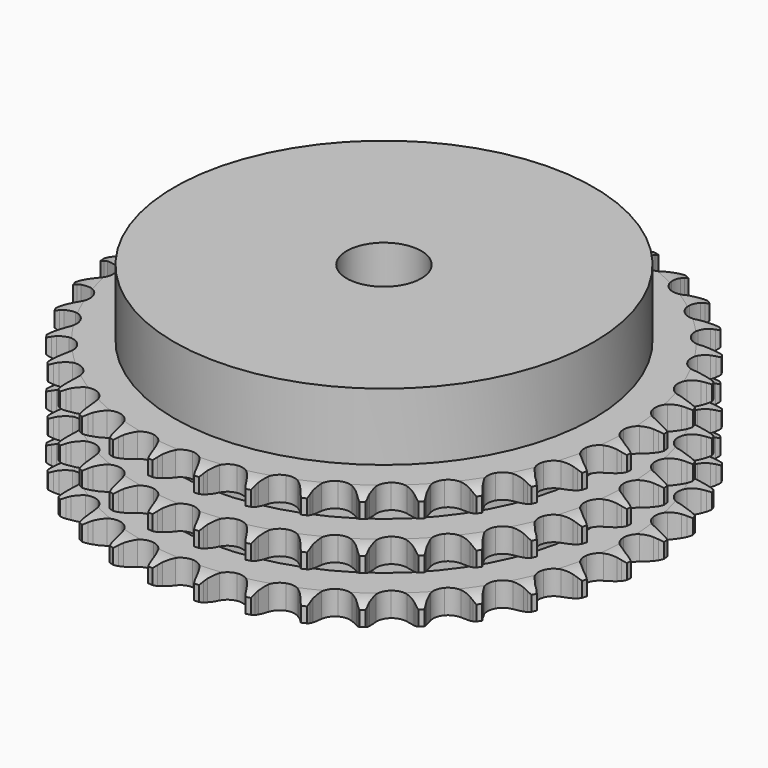
from build123d import *

# Parameters (mm, degrees)
PAD_DEPTH         = 25.6
SKETCH001_R       = 45
PAD001_DEPTH      = 40
SKETCH002_R       = 8
POCKET_DEPTH      = 0.001
POCKET_DEPTH_BACK = 40.001


with BuildPart() as part:
    # Sprocket → Pad (new body)
    with BuildSketch(Plane.XY):
        with BuildLine():
            ThreePointArc((-5.011548, 57.28225), (-4.445116, 56.509908), (-4.031769, 55.645904))
            Line((-4.031769, 55.645904), (-3.722016, 54.805027))
            ThreePointArc((-3.722016, 54.805027), (-3.231124, 53.719507), (-2.590036, 52.715349))
            ThreePointArc((-2.590036, 52.715349), (-1.449161, 51.758042), (0, 51.414584))
            ThreePointArc((0, 51.414584), (1.449161, 51.758042), (2.590036, 52.715349))
            ThreePointArc((2.590036, 52.715349), (3.231124, 53.719507), (3.722016, 54.805027))
            Line((3.722016, 54.805027), (4.031769, 55.645904))
            ThreePointArc((4.031769, 55.645904), (4.445116, 56.509908), (5.011548, 57.28225))
            ThreePointArc((5.011548, 57.28225), (5.435258, 56.423282), (5.692293, 55.500627))
            Line((5.692293, 55.500627), (5.851323, 54.618736))
            ThreePointArc((5.851323, 54.618736), (6.146258, 53.464466), (6.603237, 52.36424))
            ThreePointArc((6.603237, 52.36424), (7.560544, 51.223365), (8.928049, 50.633481))
            ThreePointArc((8.928049, 50.633481), (10.414835, 50.720077), (11.704612, 51.46473))
            Line((11.704612, 51.46473), (13.182263, 53.326094))
            ThreePointArc((13.182263, 53.326094), (13.397349, 53.719336), (13.633327, 54.100408))
            ThreePointArc((13.633327, 54.100408), (14.190427, 54.879509), (14.882369, 55.541758))
            ThreePointArc((14.882369, 55.541758), (15.150484, 54.622262), (15.243397, 53.668991))
            Line((15.243397, 53.668991), (15.246872, 52.772884))
            ThreePointArc((15.246872, 52.772884), (15.33689, 51.584934), (15.595874, 50.422069))
            ThreePointArc((15.595874, 50.422069), (16.340527, 49.132292), (17.584824, 48.313905))
            ThreePointArc((17.584824, 48.313905), (19.064059, 48.141008), (20.463549, 48.65038))
            Line((20.463549, 48.65038), (22.241974, 50.226875))
            ThreePointArc((22.241974, 50.226875), (22.522078, 50.576794), (22.820643, 50.911099))
            ThreePointArc((22.820643, 50.911099), (23.504569, 51.581624), (24.300998, 52.113658))
            ThreePointArc((24.300998, 52.113658), (24.405371, 51.161574), (24.331338, 50.206651))
            Line((24.331338, 50.206651), (24.179153, 49.323553))
            ThreePointArc((24.179153, 49.323553), (24.061518, 48.13802), (24.114638, 46.947849))
            ThreePointArc((24.114638, 46.947849), (24.62401, 45.54836), (25.707292, 44.526336))
            ThreePointArc((25.707292, 44.526336), (27.134031, 44.099198), (28.600711, 44.357814))
            Line((28.600711, 44.357814), (30.625874, 45.601537))
            ThreePointArc((30.625874, 45.601537), (30.962485, 45.897501), (31.314566, 46.174882))
            ThreePointArc((31.314566, 46.174882), (32.104537, 46.716458), (32.981253, 47.10211))
            ThreePointArc((32.981253, 47.10211), (32.918712, 46.146366), (32.679983, 45.218806))
            Line((32.679983, 45.218806), (32.376763, 44.375552))
            ThreePointArc((32.376763, 44.375552), (32.055049, 43.228457), (31.900691, 42.047143))
            ThreePointArc((31.900691, 42.047143), (32.159306, 40.580463), (33.048658, 39.385857))
            ThreePointArc((33.048658, 39.385857), (34.37955, 38.717457), (35.868856, 38.717457))
            Line((35.868856, 38.717457), (38.079222, 39.59062))
            ThreePointArc((38.079222, 39.59062), (38.462113, 39.823636), (38.857012, 40.035664))
            ThreePointArc((38.857012, 40.035664), (39.729025, 40.431836), (40.659389, 40.659389))
            ThreePointArc((40.659389, 40.659389), (40.431836, 39.729025), (40.035664, 38.857012))
            Line((40.035664, 38.857012), (39.59062, 38.079222))
            ThreePointArc((39.59062, 38.079222), (39.074603, 37.005418), (38.717457, 35.868856))
            ThreePointArc((38.717457, 35.868856), (38.717457, 34.37955), (39.385857, 33.048658))
            ThreePointArc((39.385857, 33.048658), (40.580463, 32.159306), (42.047143, 31.900691))
            Line((42.047143, 31.900691), (44.375552, 32.376763))
            ThreePointArc((44.375552, 32.376763), (44.793088, 32.539749), (45.218806, 32.679983))
            ThreePointArc((45.218806, 32.679983), (46.146366, 32.918712), (47.10211, 32.981253))
            ThreePointArc((47.10211, 32.981253), (46.716458, 32.104537), (46.174882, 31.314566))
            Line((46.174882, 31.314566), (45.601537, 30.625874))
            ThreePointArc((45.601537, 30.625874), (44.906895, 29.657989), (44.357814, 28.600711))
            ThreePointArc((44.357814, 28.600711), (44.099198, 27.134031), (44.526336, 25.707292))
            ThreePointArc((44.526336, 25.707292), (45.54836, 24.62401), (46.947849, 24.114638))
            Line((46.947849, 24.114638), (49.323553, 24.179153))
            ThreePointArc((49.323553, 24.179153), (49.763049, 24.267159), (50.206651, 24.331338))
            ThreePointArc((50.206651, 24.331338), (51.161574, 24.405371), (52.113658, 24.300998))
            ThreePointArc((52.113658, 24.300998), (51.581624, 23.504569), (50.911099, 22.820643))
            Line((50.911099, 22.820643), (50.226875, 22.241974))
            ThreePointArc((50.226875, 22.241974), (49.374715, 21.409417), (48.65038, 20.463549))
            ThreePointArc((48.65038, 20.463549), (48.141008, 19.064059), (48.313905, 17.584824))
            ThreePointArc((48.313905, 17.584824), (49.132292, 16.340527), (50.422069, 15.595874))
            Line((50.422069, 15.595874), (52.772884, 15.246872))
            ThreePointArc((52.772884, 15.246872), (53.220984, 15.257224), (53.668991, 15.243397))
            ThreePointArc((53.668991, 15.243397), (54.622262, 15.150484), (55.541758, 14.882369))
            ThreePointArc((55.541758, 14.882369), (54.879509, 14.190427), (54.100408, 13.633327))
            Line((54.100408, 13.633327), (53.326094, 13.182263))
            ThreePointArc((53.326094, 13.182263), (52.342308, 12.510331), (51.46473, 11.704612))
            ThreePointArc((51.46473, 11.704612), (50.720077, 10.414835), (50.633481, 8.928049))
            ThreePointArc((50.633481, 8.928049), (51.223365, 7.560544), (52.36424, 6.603237))
            Line((52.36424, 6.603237), (54.618736, 5.851323))
            ThreePointArc((54.618736, 5.851323), (55.061827, 5.783705), (55.500627, 5.692293))
            ThreePointArc((55.500627, 5.692293), (56.423282, 5.435258), (57.28225, 5.011548))
            ThreePointArc((57.28225, 5.011548), (56.509908, 4.445116), (55.645904, 4.031769))
            Line((55.645904, 4.031769), (54.805027, 3.722016))
            ThreePointArc((54.805027, 3.722016), (53.719507, 3.231124), (52.715349, 2.590036))
            ThreePointArc((52.715349, 2.590036), (51.758042, 1.449161), (51.414584, 0))
            ThreePointArc((51.414584, 0), (51.758042, -1.449161), (52.715349, -2.590036))
            Line((52.715349, -2.590036), (54.805027, -3.722016))
            ThreePointArc((54.805027, -3.722016), (55.229644, -3.865548), (55.645904, -4.031769))
            ThreePointArc((55.645904, -4.031769), (56.509908, -4.445116), (57.28225, -5.011548))
            ThreePointArc((57.28225, -5.011548), (56.423282, -5.435258), (55.500627, -5.692293))
            Line((55.500627, -5.692293), (54.618736, -5.851323))
            ThreePointArc((54.618736, -5.851323), (53.464466, -6.146258), (52.36424, -6.603237))
            ThreePointArc((52.36424, -6.603237), (51.223365, -7.560544), (50.633481, -8.928049))
            ThreePointArc((50.633481, -8.928049), (50.720077, -10.414835), (51.46473, -11.704612))
            Line((51.46473, -11.704612), (53.326094, -13.182263))
            ThreePointArc((53.326094, -13.182263), (53.719336, -13.397349), (54.100408, -13.633327))
            ThreePointArc((54.100408, -13.633327), (54.879509, -14.190427), (55.541758, -14.882369))
            ThreePointArc((55.541758, -14.882369), (54.622262, -15.150484), (53.668991, -15.243397))
            Line((53.668991, -15.243397), (52.772884, -15.246872))
            ThreePointArc((52.772884, -15.246872), (51.584934, -15.33689), (50.422069, -15.595874))
            ThreePointArc((50.422069, -15.595874), (49.132292, -16.340527), (48.313905, -17.584824))
            ThreePointArc((48.313905, -17.584824), (48.141008, -19.064059), (48.65038, -20.463549))
            Line((48.65038, -20.463549), (50.226875, -22.241974))
            ThreePointArc((50.226875, -22.241974), (50.576794, -22.522078), (50.911099, -22.820643))
            ThreePointArc((50.911099, -22.820643), (51.581624, -23.504569), (52.113658, -24.300998))
            ThreePointArc((52.113658, -24.300998), (51.161574, -24.405371), (50.206651, -24.331338))
            Line((50.206651, -24.331338), (49.323553, -24.179153))
            ThreePointArc((49.323553, -24.179153), (48.13802, -24.061518), (46.947849, -24.114638))
            ThreePointArc((46.947849, -24.114638), (45.54836, -24.62401), (44.526336, -25.707292))
            ThreePointArc((44.526336, -25.707292), (44.099198, -27.134031), (44.357814, -28.600711))
            Line((44.357814, -28.600711), (45.601537, -30.625874))
            ThreePointArc((45.601537, -30.625874), (45.897501, -30.962485), (46.174882, -31.314566))
            ThreePointArc((46.174882, -31.314566), (46.716458, -32.104537), (47.10211, -32.981253))
            ThreePointArc((47.10211, -32.981253), (46.146366, -32.918712), (45.218806, -32.679983))
            Line((45.218806, -32.679983), (44.375552, -32.376763))
            ThreePointArc((44.375552, -32.376763), (43.228457, -32.055049), (42.047143, -31.900691))
            ThreePointArc((42.047143, -31.900691), (40.580463, -32.159306), (39.385857, -33.048658))
            ThreePointArc((39.385857, -33.048658), (38.717457, -34.37955), (38.717457, -35.868856))
            Line((38.717457, -35.868856), (39.59062, -38.079222))
            ThreePointArc((39.59062, -38.079222), (39.823636, -38.462113), (40.035664, -38.857012))
            ThreePointArc((40.035664, -38.857012), (40.431836, -39.729025), (40.659389, -40.659389))
            ThreePointArc((40.659389, -40.659389), (39.729025, -40.431836), (38.857012, -40.035664))
            Line((38.857012, -40.035664), (38.079222, -39.59062))
            ThreePointArc((38.079222, -39.59062), (37.005418, -39.074603), (35.868856, -38.717457))
            ThreePointArc((35.868856, -38.717457), (34.37955, -38.717457), (33.048658, -39.385857))
            ThreePointArc((33.048658, -39.385857), (32.159306, -40.580463), (31.900691, -42.047143))
            Line((31.900691, -42.047143), (32.376763, -44.375552))
            ThreePointArc((32.376763, -44.375552), (32.539749, -44.793088), (32.679983, -45.218806))
            ThreePointArc((32.679983, -45.218806), (32.918712, -46.146366), (32.981253, -47.10211))
            ThreePointArc((32.981253, -47.10211), (32.104537, -46.716458), (31.314566, -46.174882))
            Line((31.314566, -46.174882), (30.625874, -45.601537))
            ThreePointArc((30.625874, -45.601537), (29.657989, -44.906895), (28.600711, -44.357814))
            ThreePointArc((28.600711, -44.357814), (27.134031, -44.099198), (25.707292, -44.526336))
            ThreePointArc((25.707292, -44.526336), (24.62401, -45.54836), (24.114638, -46.947849))
            Line((24.114638, -46.947849), (24.179153, -49.323553))
            ThreePointArc((24.179153, -49.323553), (24.267159, -49.763049), (24.331338, -50.206651))
            ThreePointArc((24.331338, -50.206651), (24.405371, -51.161574), (24.300998, -52.113658))
            ThreePointArc((24.300998, -52.113658), (23.504569, -51.581624), (22.820643, -50.911099))
            Line((22.820643, -50.911099), (22.241974, -50.226875))
            ThreePointArc((22.241974, -50.226875), (21.409417, -49.374715), (20.463549, -48.65038))
            ThreePointArc((20.463549, -48.65038), (19.064059, -48.141008), (17.584824, -48.313905))
            ThreePointArc((17.584824, -48.313905), (16.340527, -49.132292), (15.595874, -50.422069))
            Line((15.595874, -50.422069), (15.246872, -52.772884))
            ThreePointArc((15.246872, -52.772884), (15.257224, -53.220984), (15.243397, -53.668991))
            ThreePointArc((15.243397, -53.668991), (15.150484, -54.622262), (14.882369, -55.541758))
            ThreePointArc((14.882369, -55.541758), (14.190427, -54.879509), (13.633327, -54.100408))
            Line((13.633327, -54.100408), (13.182263, -53.326094))
            ThreePointArc((13.182263, -53.326094), (12.510331, -52.342308), (11.704612, -51.46473))
            ThreePointArc((11.704612, -51.46473), (10.414835, -50.720077), (8.928049, -50.633481))
            ThreePointArc((8.928049, -50.633481), (7.560544, -51.223365), (6.603237, -52.36424))
            Line((6.603237, -52.36424), (5.851323, -54.618736))
            ThreePointArc((5.851323, -54.618736), (5.783705, -55.061827), (5.692293, -55.500627))
            ThreePointArc((5.692293, -55.500627), (5.435258, -56.423282), (5.011548, -57.28225))
            ThreePointArc((5.011548, -57.28225), (4.445116, -56.509908), (4.031769, -55.645904))
            Line((4.031769, -55.645904), (3.722016, -54.805027))
            ThreePointArc((3.722016, -54.805027), (3.231124, -53.719507), (2.590036, -52.715349))
            ThreePointArc((2.590036, -52.715349), (1.449161, -51.758042), (0, -51.414584))
            ThreePointArc((0, -51.414584), (-1.449161, -51.758042), (-2.590036, -52.715349))
            Line((-2.590036, -52.715349), (-3.722016, -54.805027))
            ThreePointArc((-3.722016, -54.805027), (-3.865548, -55.229644), (-4.031769, -55.645904))
            ThreePointArc((-4.031769, -55.645904), (-4.445116, -56.509908), (-5.011548, -57.28225))
            ThreePointArc((-5.011548, -57.28225), (-5.435258, -56.423282), (-5.692293, -55.500627))
            Line((-5.692293, -55.500627), (-5.851323, -54.618736))
            ThreePointArc((-5.851323, -54.618736), (-6.146258, -53.464466), (-6.603237, -52.36424))
            ThreePointArc((-6.603237, -52.36424), (-7.560544, -51.223365), (-8.928049, -50.633481))
            ThreePointArc((-8.928049, -50.633481), (-10.414835, -50.720077), (-11.704612, -51.46473))
            Line((-11.704612, -51.46473), (-13.182263, -53.326094))
            ThreePointArc((-13.182263, -53.326094), (-13.397349, -53.719336), (-13.633327, -54.100408))
            ThreePointArc((-13.633327, -54.100408), (-14.190427, -54.879509), (-14.882369, -55.541758))
            ThreePointArc((-14.882369, -55.541758), (-15.150484, -54.622262), (-15.243397, -53.668991))
            Line((-15.243397, -53.668991), (-15.246872, -52.772884))
            ThreePointArc((-15.246872, -52.772884), (-15.33689, -51.584934), (-15.595874, -50.422069))
            ThreePointArc((-15.595874, -50.422069), (-16.340527, -49.132292), (-17.584824, -48.313905))
            ThreePointArc((-17.584824, -48.313905), (-19.064059, -48.141008), (-20.463549, -48.65038))
            Line((-20.463549, -48.65038), (-22.241974, -50.226875))
            ThreePointArc((-22.241974, -50.226875), (-22.522078, -50.576794), (-22.820643, -50.911099))
            ThreePointArc((-22.820643, -50.911099), (-23.504569, -51.581624), (-24.300998, -52.113658))
            ThreePointArc((-24.300998, -52.113658), (-24.405371, -51.161574), (-24.331338, -50.206651))
            Line((-24.331338, -50.206651), (-24.179153, -49.323553))
            ThreePointArc((-24.179153, -49.323553), (-24.061518, -48.13802), (-24.114638, -46.947849))
            ThreePointArc((-24.114638, -46.947849), (-24.62401, -45.54836), (-25.707292, -44.526336))
            ThreePointArc((-25.707292, -44.526336), (-27.134031, -44.099198), (-28.600711, -44.357814))
            Line((-28.600711, -44.357814), (-30.625874, -45.601537))
            ThreePointArc((-30.625874, -45.601537), (-30.962485, -45.897501), (-31.314566, -46.174882))
            ThreePointArc((-31.314566, -46.174882), (-32.104537, -46.716458), (-32.981253, -47.10211))
            ThreePointArc((-32.981253, -47.10211), (-32.918712, -46.146366), (-32.679983, -45.218806))
            Line((-32.679983, -45.218806), (-32.376763, -44.375552))
            ThreePointArc((-32.376763, -44.375552), (-32.055049, -43.228457), (-31.900691, -42.047143))
            ThreePointArc((-31.900691, -42.047143), (-32.159306, -40.580463), (-33.048658, -39.385857))
            ThreePointArc((-33.048658, -39.385857), (-34.37955, -38.717457), (-35.868856, -38.717457))
            Line((-35.868856, -38.717457), (-38.079222, -39.59062))
            ThreePointArc((-38.079222, -39.59062), (-38.462113, -39.823636), (-38.857012, -40.035664))
            ThreePointArc((-38.857012, -40.035664), (-39.729025, -40.431836), (-40.659389, -40.659389))
            ThreePointArc((-40.659389, -40.659389), (-40.431836, -39.729025), (-40.035664, -38.857012))
            Line((-40.035664, -38.857012), (-39.59062, -38.079222))
            ThreePointArc((-39.59062, -38.079222), (-39.074603, -37.005418), (-38.717457, -35.868856))
            ThreePointArc((-38.717457, -35.868856), (-38.717457, -34.37955), (-39.385857, -33.048658))
            ThreePointArc((-39.385857, -33.048658), (-40.580463, -32.159306), (-42.047143, -31.900691))
            Line((-42.047143, -31.900691), (-44.375552, -32.376763))
            ThreePointArc((-44.375552, -32.376763), (-44.793088, -32.539749), (-45.218806, -32.679983))
            ThreePointArc((-45.218806, -32.679983), (-46.146366, -32.918712), (-47.10211, -32.981253))
            ThreePointArc((-47.10211, -32.981253), (-46.716458, -32.104537), (-46.174882, -31.314566))
            Line((-46.174882, -31.314566), (-45.601537, -30.625874))
            ThreePointArc((-45.601537, -30.625874), (-44.906895, -29.657989), (-44.357814, -28.600711))
            ThreePointArc((-44.357814, -28.600711), (-44.099198, -27.134031), (-44.526336, -25.707292))
            ThreePointArc((-44.526336, -25.707292), (-45.54836, -24.62401), (-46.947849, -24.114638))
            Line((-46.947849, -24.114638), (-49.323553, -24.179153))
            ThreePointArc((-49.323553, -24.179153), (-49.763049, -24.267159), (-50.206651, -24.331338))
            ThreePointArc((-50.206651, -24.331338), (-51.161574, -24.405371), (-52.113658, -24.300998))
            ThreePointArc((-52.113658, -24.300998), (-51.581624, -23.504569), (-50.911099, -22.820643))
            Line((-50.911099, -22.820643), (-50.226875, -22.241974))
            ThreePointArc((-50.226875, -22.241974), (-49.374715, -21.409417), (-48.65038, -20.463549))
            ThreePointArc((-48.65038, -20.463549), (-48.141008, -19.064059), (-48.313905, -17.584824))
            ThreePointArc((-48.313905, -17.584824), (-49.132292, -16.340527), (-50.422069, -15.595874))
            Line((-50.422069, -15.595874), (-52.772884, -15.246872))
            ThreePointArc((-52.772884, -15.246872), (-53.220984, -15.257224), (-53.668991, -15.243397))
            ThreePointArc((-53.668991, -15.243397), (-54.622262, -15.150484), (-55.541758, -14.882369))
            ThreePointArc((-55.541758, -14.882369), (-54.879509, -14.190427), (-54.100408, -13.633327))
            Line((-54.100408, -13.633327), (-53.326094, -13.182263))
            ThreePointArc((-53.326094, -13.182263), (-52.342308, -12.510331), (-51.46473, -11.704612))
            ThreePointArc((-51.46473, -11.704612), (-50.720077, -10.414835), (-50.633481, -8.928049))
            ThreePointArc((-50.633481, -8.928049), (-51.223365, -7.560544), (-52.36424, -6.603237))
            Line((-52.36424, -6.603237), (-54.618736, -5.851323))
            ThreePointArc((-54.618736, -5.851323), (-55.061827, -5.783705), (-55.500627, -5.692293))
            ThreePointArc((-55.500627, -5.692293), (-56.423282, -5.435258), (-57.28225, -5.011548))
            ThreePointArc((-57.28225, -5.011548), (-56.509908, -4.445116), (-55.645904, -4.031769))
            Line((-55.645904, -4.031769), (-54.805027, -3.722016))
            ThreePointArc((-54.805027, -3.722016), (-53.719507, -3.231124), (-52.715349, -2.590036))
            ThreePointArc((-52.715349, -2.590036), (-51.758042, -1.449161), (-51.414584, 0))
            ThreePointArc((-51.414584, 0), (-51.758042, 1.449161), (-52.715349, 2.590036))
            Line((-52.715349, 2.590036), (-54.805027, 3.722016))
            ThreePointArc((-54.805027, 3.722016), (-55.229644, 3.865548), (-55.645904, 4.031769))
            ThreePointArc((-55.645904, 4.031769), (-56.509908, 4.445116), (-57.28225, 5.011548))
            ThreePointArc((-57.28225, 5.011548), (-56.423282, 5.435258), (-55.500627, 5.692293))
            Line((-55.500627, 5.692293), (-54.618736, 5.851323))
            ThreePointArc((-54.618736, 5.851323), (-53.464466, 6.146258), (-52.36424, 6.603237))
            ThreePointArc((-52.36424, 6.603237), (-51.223365, 7.560544), (-50.633481, 8.928049))
            ThreePointArc((-50.633481, 8.928049), (-50.720077, 10.414835), (-51.46473, 11.704612))
            Line((-51.46473, 11.704612), (-53.326094, 13.182263))
            ThreePointArc((-53.326094, 13.182263), (-53.719336, 13.397349), (-54.100408, 13.633327))
            ThreePointArc((-54.100408, 13.633327), (-54.879509, 14.190427), (-55.541758, 14.882369))
            ThreePointArc((-55.541758, 14.882369), (-54.622262, 15.150484), (-53.668991, 15.243397))
            Line((-53.668991, 15.243397), (-52.772884, 15.246872))
            ThreePointArc((-52.772884, 15.246872), (-51.584934, 15.33689), (-50.422069, 15.595874))
            ThreePointArc((-50.422069, 15.595874), (-49.132292, 16.340527), (-48.313905, 17.584824))
            ThreePointArc((-48.313905, 17.584824), (-48.141008, 19.064059), (-48.65038, 20.463549))
            Line((-48.65038, 20.463549), (-50.226875, 22.241974))
            ThreePointArc((-50.226875, 22.241974), (-50.576794, 22.522078), (-50.911099, 22.820643))
            ThreePointArc((-50.911099, 22.820643), (-51.581624, 23.504569), (-52.113658, 24.300998))
            ThreePointArc((-52.113658, 24.300998), (-51.161574, 24.405371), (-50.206651, 24.331338))
            Line((-50.206651, 24.331338), (-49.323553, 24.179153))
            ThreePointArc((-49.323553, 24.179153), (-48.13802, 24.061518), (-46.947849, 24.114638))
            ThreePointArc((-46.947849, 24.114638), (-45.54836, 24.62401), (-44.526336, 25.707292))
            ThreePointArc((-44.526336, 25.707292), (-44.099198, 27.134031), (-44.357814, 28.600711))
            Line((-44.357814, 28.600711), (-45.601537, 30.625874))
            ThreePointArc((-45.601537, 30.625874), (-45.897501, 30.962485), (-46.174882, 31.314566))
            ThreePointArc((-46.174882, 31.314566), (-46.716458, 32.104537), (-47.10211, 32.981253))
            ThreePointArc((-47.10211, 32.981253), (-46.146366, 32.918712), (-45.218806, 32.679983))
            Line((-45.218806, 32.679983), (-44.375552, 32.376763))
            ThreePointArc((-44.375552, 32.376763), (-43.228457, 32.055049), (-42.047143, 31.900691))
            ThreePointArc((-42.047143, 31.900691), (-40.580463, 32.159306), (-39.385857, 33.048658))
            ThreePointArc((-39.385857, 33.048658), (-38.717457, 34.37955), (-38.717457, 35.868856))
            Line((-38.717457, 35.868856), (-39.59062, 38.079222))
            ThreePointArc((-39.59062, 38.079222), (-39.823636, 38.462113), (-40.035664, 38.857012))
            ThreePointArc((-40.035664, 38.857012), (-40.431836, 39.729025), (-40.659389, 40.659389))
            ThreePointArc((-40.659389, 40.659389), (-39.729025, 40.431836), (-38.857012, 40.035664))
            Line((-38.857012, 40.035664), (-38.079222, 39.59062))
            ThreePointArc((-38.079222, 39.59062), (-37.005418, 39.074603), (-35.868856, 38.717457))
            ThreePointArc((-35.868856, 38.717457), (-34.37955, 38.717457), (-33.048658, 39.385857))
            ThreePointArc((-33.048658, 39.385857), (-32.159306, 40.580463), (-31.900691, 42.047143))
            Line((-31.900691, 42.047143), (-32.376763, 44.375552))
            ThreePointArc((-32.376763, 44.375552), (-32.539749, 44.793088), (-32.679983, 45.218806))
            ThreePointArc((-32.679983, 45.218806), (-32.918712, 46.146366), (-32.981253, 47.10211))
            ThreePointArc((-32.981253, 47.10211), (-32.104537, 46.716458), (-31.314566, 46.174882))
            Line((-31.314566, 46.174882), (-30.625874, 45.601537))
            ThreePointArc((-30.625874, 45.601537), (-29.657989, 44.906895), (-28.600711, 44.357814))
            ThreePointArc((-28.600711, 44.357814), (-27.134031, 44.099198), (-25.707292, 44.526336))
            ThreePointArc((-25.707292, 44.526336), (-24.62401, 45.54836), (-24.114638, 46.947849))
            Line((-24.114638, 46.947849), (-24.179153, 49.323553))
            ThreePointArc((-24.179153, 49.323553), (-24.267159, 49.763049), (-24.331338, 50.206651))
            ThreePointArc((-24.331338, 50.206651), (-24.405371, 51.161574), (-24.300998, 52.113658))
            ThreePointArc((-24.300998, 52.113658), (-23.504569, 51.581624), (-22.820643, 50.911099))
            Line((-22.820643, 50.911099), (-22.241974, 50.226875))
            ThreePointArc((-22.241974, 50.226875), (-21.409417, 49.374715), (-20.463549, 48.65038))
            ThreePointArc((-20.463549, 48.65038), (-19.064059, 48.141008), (-17.584824, 48.313905))
            ThreePointArc((-17.584824, 48.313905), (-16.340527, 49.132292), (-15.595874, 50.422069))
            Line((-15.595874, 50.422069), (-15.246872, 52.772884))
            ThreePointArc((-15.246872, 52.772884), (-15.257224, 53.220984), (-15.243397, 53.668991))
            ThreePointArc((-15.243397, 53.668991), (-15.150484, 54.622262), (-14.882369, 55.541758))
            ThreePointArc((-14.882369, 55.541758), (-14.190427, 54.879509), (-13.633327, 54.100408))
            Line((-13.633327, 54.100408), (-13.182263, 53.326094))
            ThreePointArc((-13.182263, 53.326094), (-12.510331, 52.342308), (-11.704612, 51.46473))
            ThreePointArc((-11.704612, 51.46473), (-10.414835, 50.720077), (-8.928049, 50.633481))
            ThreePointArc((-8.928049, 50.633481), (-7.560544, 51.223365), (-6.603237, 52.36424))
            Line((-6.603237, 52.36424), (-5.851323, 54.618736))
            ThreePointArc((-5.851323, 54.618736), (-5.783705, 55.061827), (-5.692293, 55.500627))
            ThreePointArc((-5.692293, 55.500627), (-5.435258, 56.423282), (-5.011548, 57.28225))
        make_face()
    extrude(amount=PAD_DEPTH)

    # Sketch → Groove (revolve, cut)
    with BuildSketch(Plane.XZ):
        with BuildLine():
            ThreePointArc((52.341101, 0), (54.577169, 0.253206), (56.7, 1))
            Line((56.7, 1), (56.7, 4.2))
            ThreePointArc((56.7, 4.2), (54.577169, 4.946794), (52.341101, 5.2))
            Line((45, 5.2), (52.341101, 5.2))
            Line((45, 5.2), (45, 10.2))
            Line((45, 10.2), (52.341101, 10.2))
            ThreePointArc((52.341101, 10.2), (54.577169, 10.453206), (56.7, 11.2))
            Line((56.7, 14.4), (56.7, 11.2))
            ThreePointArc((56.7, 14.4), (54.577169, 15.146794), (52.341101, 15.4))
            Line((45, 15.4), (52.341101, 15.4))
            Line((45, 20.4), (45, 15.4))
            Line((52.341101, 20.4), (45, 20.4))
            ThreePointArc((52.341101, 20.4), (54.577169, 20.653206), (56.7, 21.4))
            Line((56.7, 21.4), (56.7, 24.6))
            ThreePointArc((56.7, 24.6), (54.577169, 25.346794), (52.341101, 25.6))
            Line((52.341101, 25.6), (66.7, 25.6))
            Line((66.7, 25.6), (66.7, 0))
            Line((52.341101, 0), (66.7, 0))
        make_face()
    revolve(axis=Axis((0, 0, 0), (0, 0, 1)), mode=Mode.SUBTRACT)

    # Sketch001 → Pad001 (join)
    with BuildSketch(Plane.XY):
        Circle(SKETCH001_R)
    extrude(amount=PAD001_DEPTH)

    # Sketch002 → Pocket (cut, two sides)
    with BuildSketch(Plane.XY) as pocket_sk:
        Circle(SKETCH002_R)
    extrude(amount=-POCKET_DEPTH, mode=Mode.SUBTRACT)
    extrude(pocket_sk.sketch, amount=POCKET_DEPTH_BACK, mode=Mode.SUBTRACT)


solid = part.part
